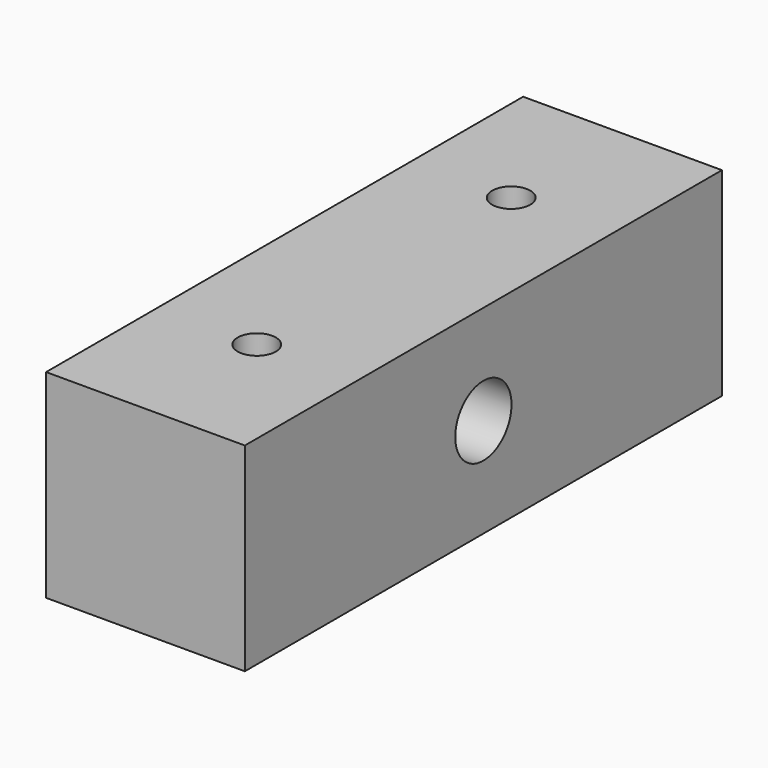
from build123d import *

# Parameters (mm, degrees)
F0_W     = 12.7
F0_H     = 38.1
F1_DEPTH = 12.7
F3_D     = 4.4958
F5_D     = 2.4384


with BuildPart() as f1:
    # F0 (on Top) → F1 (new body)
    with BuildSketch(Plane.XY):
        with Locations((6.35, 0)):
            Rectangle(F0_W, F0_H)
    extrude(amount=F1_DEPTH)

    # F3 (through all)
    with Locations(Plane(origin=(0, 0, 0), x_dir=(0, 1, 0), z_dir=(-1, 0, 0))):
        with Locations((0, -6.35)):
            Hole(F3_D / 2)

    # F5 (through all)
    with Locations(Plane(origin=(0, 0, 0), x_dir=(1, 0, 0), z_dir=(0, 0, -1))):
        with Locations((6.35, -10.16), (6.35, 10.16)):
            Hole(F5_D / 2)


solid = f1.part
